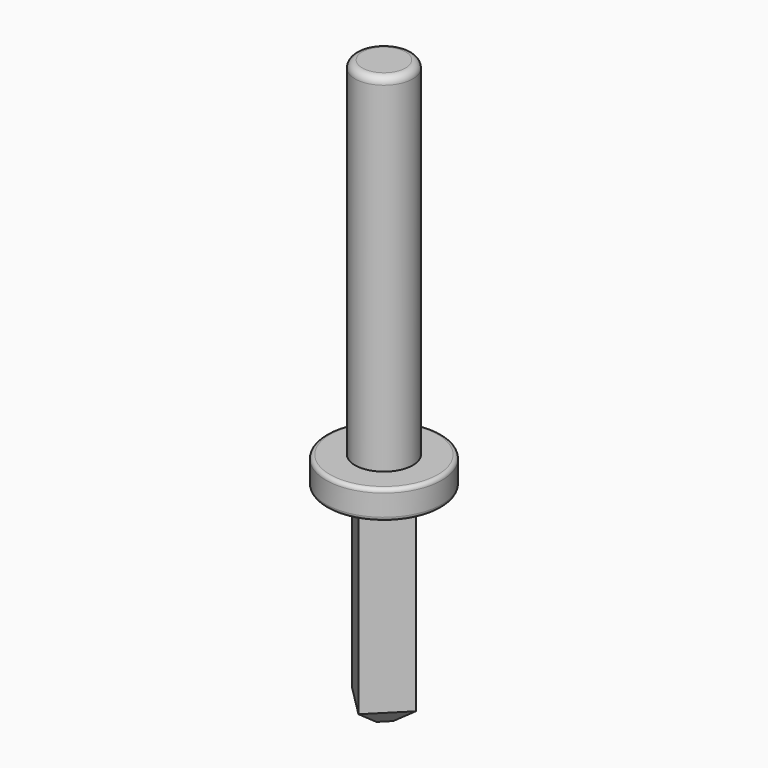
from build123d import *

# Parameters (mm, degrees)
PAD_DEPTH    = 3.5
CHAMFER_SIZE = 0.275


with BuildPart() as part:
    # Sketch → Revolution (revolve)
    with BuildSketch(Plane(origin=(0, 0, 0), x_dir=(-1, 0, 0), z_dir=(0, 1, 0))):
        with BuildLine():
            Line((0, 0), (0.933333, 0))
            ThreePointArc((0.933333, 0), (0.980474, 0.019526), (1, 0.066667))
            Line((1, 0.066667), (1, 0.433333))
            ThreePointArc((1, 0.433333), (0.980474, 0.480474), (0.933333, 0.5))
            Line((0.933333, 0.5), (0.5, 0.5))
            Line((0.5, 0.5), (0.5, 6.375))
            ThreePointArc((0.5, 6.375), (0.463388, 6.463388), (0.375, 6.5))
            Line((0.375, 6.5), (0, 6.5))
            Line((0, 6.5), (0, 0))
        make_face()
    revolve(axis=Axis((0, 0, 0), (0, 0, 1)))

    # Sketch001 → Pad (new body)
    with BuildSketch(Plane.XY):
        Polygon((-0.55, 0), (0, 0.55), (0.55, 0), (0, -0.55), align=None)
    extrude(amount=-PAD_DEPTH)

    # Chamfer
    chamfer_edges = [part.edges().sort_by_distance(p)[0] for p in [
        (0.275, -0.275, -3.5),
        (-0.275, -0.275, -3.5),
        (-0.275, 0.275, -3.5),
        (0.275, 0.275, -3.5),
    ]]
    chamfer(chamfer_edges, length=CHAMFER_SIZE)


solid = part.part
